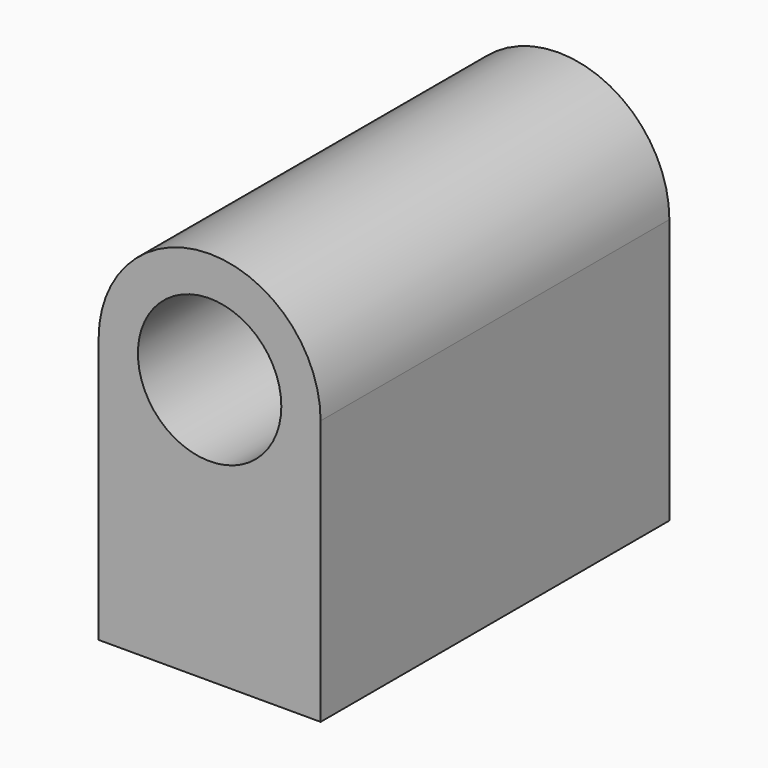
from build123d import *

# Parameters (mm, degrees)
F0_R      = 25.320305
F1_DEPTH  = 77.978
F1_FACE_R = 25.320305
F2_DEPTH  = 75.946


with BuildPart() as f1:
    # F0 (on Front) → F1 (new body)
    with BuildSketch(Plane.XZ):
        with BuildLine():
            Line((-39.191756, 46.791889), (-39.191756, -46.791889))
            Line((-39.191756, -46.791889), (39.191756, -46.791889))
            Line((39.191756, -46.791889), (39.191756, 46.791889))
            ThreePointArc((39.191756, 46.791889), (0, 85.983645), (-39.191756, 46.791889))
        make_face()
        with Locations((0, 46.791889)):
            Circle(F0_R, mode=Mode.SUBTRACT)
    extrude(amount=-F1_DEPTH)

    # F1_face (on face) → F2 (join)
    with BuildSketch(Plane(origin=(0, 0, 7.600639), x_dir=(1, 0, 0), z_dir=(0, -1, 0))):
        with BuildLine():
            Line((-39.191756, 39.19125), (-39.191756, -54.392528))
            Line((-39.191756, -54.392528), (39.191756, -54.392528))
            Line((39.191756, -54.392528), (39.191756, 39.19125))
            ThreePointArc((39.191756, 39.19125), (0, 78.383006), (-39.191756, 39.19125))
        make_face()
        with Locations((0, 39.19125)):
            Circle(F1_FACE_R, mode=Mode.SUBTRACT)
    extrude(amount=F2_DEPTH)


solid = f1.part
